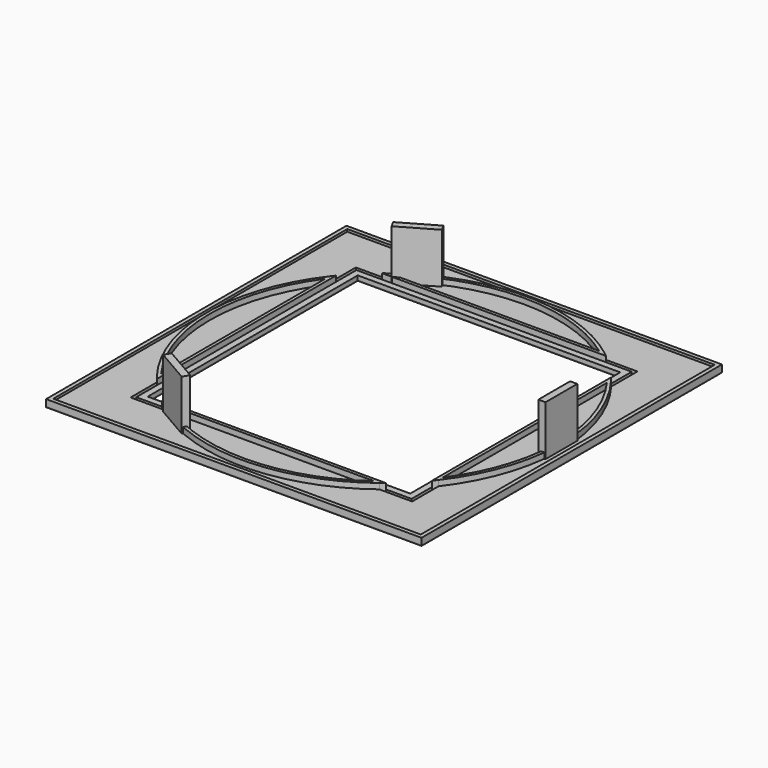
from build123d import *

# Parameters (mm, degrees)
F0_W      = 236
F0_H      = 236
F0_W_2    = 231
F0_H_2    = 231
F1_DEPTH  = 4
F2_DEPTH  = 2.5
F0_W_3    = 165
F0_H_3    = 165
F3_DEPTH  = 2.5
F4_DEPTH  = 6
F5_DEPTH  = 6
F6_DEPTH  = 6
F7_DEPTH  = 6
F8_DEPTH  = 6
F9_DEPTH  = 34
F10_COUNT = 3
F10_ANGLE = 240
F11_DEPTH = 2.5
F12_W     = 236
F12_H     = 236
F12_W_2   = 165
F12_H_2   = 165
F13_DEPTH = 0.5


with BuildPart() as f1:
    # F0 (on Top) → F1 (new body)
    with BuildSketch(Plane.XY):
        Rectangle(F0_W, F0_H)
        Rectangle(F0_W_2, F0_H_2, mode=Mode.SUBTRACT)
    extrude(amount=F1_DEPTH)

    # F0 (on Top) → F2 (join)
    with BuildSketch(Plane.XY):
        Rectangle(F0_W_2, F0_H_2)
        with BuildLine():
            Line((-88.5, 88.5), (-67.8232998313, 88.5))
            ThreePointArc((-67.8232998313, 88.5), (0, 111.5), (67.8232998313, 88.5))
            Line((67.8232998313, 88.5), (88.5, 88.5))
            Line((88.5, 88.5), (88.5, 67.8232998313))
            ThreePointArc((88.5, 67.8232998313), (103.4166407139, 41.6803121803), (110.7971118757, 12.5))
            Line((110.7971118757, 12.5), (111.5, 12.5))
            Line((111.5, 12.5), (111.5, 0))
            Line((111.5, 0), (111.5, -12.5))
            Line((111.5, -12.5), (110.7971118757, -12.5))
            ThreePointArc((110.7971118757, -12.5), (103.4166407139, -41.6803121803), (88.5, -67.8232998313))
            Line((88.5, -67.8232998313), (88.5, -88.5))
            Line((88.5, -88.5), (67.8232998313, -88.5))
            ThreePointArc((67.8232998313, -88.5), (0, -111.5), (-67.8232998313, -88.5))
            Line((-67.8232998313, -88.5), (-88.5, -88.5))
            Line((-88.5, -88.5), (-88.5, -67.8232998313))
            ThreePointArc((-88.5, -67.8232998313), (-111.5, 0), (-88.5, 67.8232998313))
            Line((-88.5, 67.8232998313), (-88.5, 88.5))
        make_face(mode=Mode.SUBTRACT)
    extrude(amount=F2_DEPTH)


with BuildPart() as f3:
    # F0 (on Top) → F3 (new body)
    with BuildSketch(Plane.XY):
        Polygon((-70.3562363974, 86.5), (-86.5, 86.5), (-86.5, 70.3562363974), (-86.5, 67.1416413264), (-86.5, -67.1416413264), (-86.5, -70.3562363974), (-86.5, -86.5), (-70.3562363974, -86.5), (-67.1416413264, -86.5), (67.1416413264, -86.5), (70.3562363974, -86.5), (86.5, -86.5), (86.5, -70.3562363974), (86.5, -67.1416413264), (86.5, 67.1416413264), (86.5, 70.3562363974), (86.5, 86.5), (70.3562363974, 86.5), (67.1416413264, 86.5), (-67.1416413264, 86.5), align=None)
        Rectangle(F0_W_3, F0_H_3, mode=Mode.SUBTRACT)
    extrude(amount=F3_DEPTH)


with BuildPart() as f4:
    # F0 (on Top) → F4 (new body)
    with BuildSketch(Plane.XY):
        with BuildLine():
            Line((-64.4825557806, -88.5), (-67.8232998313, -88.5))
            ThreePointArc((-67.8232998313, -88.5), (0, -111.5), (67.8232998313, -88.5))
            Line((67.8232998313, -88.5), (64.4825557806, -88.5))
            ThreePointArc((64.4825557806, -88.5), (0, -109.5), (-64.4825557806, -88.5))
        make_face()
        with BuildLine():
            ThreePointArc((-67.1416413264, -86.5), (-65.8196955023, -87.5101004684), (-64.4825557806, -88.5))
            Line((-64.4825557806, -88.5), (64.4825557806, -88.5))
            ThreePointArc((64.4825557806, -88.5), (65.8196955023, -87.5101004684), (67.1416413264, -86.5))
            Line((67.1416413264, -86.5), (-67.1416413264, -86.5))
        make_face()
        with BuildLine():
            ThreePointArc((-70.3562363974, -86.5), (-69.0970046969, -87.5091649024), (-67.8232998313, -88.5))
            Line((-67.8232998313, -88.5), (-64.4825557806, -88.5))
            ThreePointArc((-64.4825557806, -88.5), (-65.8196955023, -87.5101004684), (-67.1416413264, -86.5))
            Line((-67.1416413264, -86.5), (-70.3562363974, -86.5))
        make_face()
        with BuildLine():
            Line((64.4825557806, -88.5), (67.8232998313, -88.5))
            ThreePointArc((67.8232998313, -88.5), (69.0970046969, -87.5091649024), (70.3562363974, -86.5))
            Line((70.3562363974, -86.5), (67.1416413264, -86.5))
            ThreePointArc((67.1416413264, -86.5), (65.8196955023, -87.5101004684), (64.4825557806, -88.5))
        make_face()
    extrude(amount=F4_DEPTH)


with BuildPart() as f5:
    # F0 (on Top) → F5 (new body)
    with BuildSketch(Plane.XY):
        with BuildLine():
            ThreePointArc((108.7841900278, -12.5), (102.0088693943, -39.8050319043), (88.5, -64.4825557806))
            Line((88.5, -64.4825557806), (88.5, -67.8232998313))
            ThreePointArc((88.5, -67.8232998313), (103.4166407139, -41.6803121803), (110.7971118757, -12.5))
            Line((110.7971118757, -12.5), (108.7841900278, -12.5))
        make_face()
        with BuildLine():
            Line((88.5, -67.8232998313), (88.5, -64.4825557806))
            ThreePointArc((88.5, -64.4825557806), (87.5101004684, -65.8196955023), (86.5, -67.1416413264))
            Line((86.5, -67.1416413264), (86.5, -70.3562363974))
            ThreePointArc((86.5, -70.3562363974), (87.5091649024, -69.0970046969), (88.5, -67.8232998313))
        make_face()
        with BuildLine():
            Line((88.5, -64.4825557806), (88.5, 64.4825557806))
            ThreePointArc((88.5, 64.4825557806), (87.5101004684, 65.8196955023), (86.5, 67.1416413264))
            Line((86.5, 67.1416413264), (86.5, -67.1416413264))
            ThreePointArc((86.5, -67.1416413264), (87.5101004684, -65.8196955023), (88.5, -64.4825557806))
        make_face()
        with BuildLine():
            Line((88.5, 64.4825557806), (88.5, 67.8232998313))
            ThreePointArc((88.5, 67.8232998313), (87.5091649024, 69.0970046969), (86.5, 70.3562363974))
            Line((86.5, 70.3562363974), (86.5, 67.1416413264))
            ThreePointArc((86.5, 67.1416413264), (87.5101004684, 65.8196955023), (88.5, 64.4825557806))
        make_face()
        with BuildLine():
            ThreePointArc((110.7971118757, 12.5), (103.4166407139, 41.6803121803), (88.5, 67.8232998313))
            Line((88.5, 67.8232998313), (88.5, 64.4825557806))
            ThreePointArc((88.5, 64.4825557806), (102.0088693943, 39.8050319043), (108.7841900278, 12.5))
            Line((108.7841900278, 12.5), (110.7971118757, 12.5))
        make_face()
    extrude(amount=F5_DEPTH)


with BuildPart() as f6:
    # F0 (on Top) → F6 (new body)
    with BuildSketch(Plane.XY):
        with BuildLine():
            Line((-88.5, 64.4825557806), (-88.5, 67.8232998313))
            ThreePointArc((-88.5, 67.8232998313), (-111.5, 0), (-88.5, -67.8232998313))
            Line((-88.5, -67.8232998313), (-88.5, -64.4825557806))
            ThreePointArc((-88.5, -64.4825557806), (-109.5, 0), (-88.5, 64.4825557806))
        make_face()
        with BuildLine():
            Line((-86.5, -70.3562363974), (-86.5, -67.1416413264))
            ThreePointArc((-86.5, -67.1416413264), (-87.5101004684, -65.8196955023), (-88.5, -64.4825557806))
            Line((-88.5, -64.4825557806), (-88.5, -67.8232998313))
            ThreePointArc((-88.5, -67.8232998313), (-87.5091649024, -69.0970046969), (-86.5, -70.3562363974))
        make_face()
        with BuildLine():
            Line((-86.5, -67.1416413264), (-86.5, 67.1416413264))
            ThreePointArc((-86.5, 67.1416413264), (-87.5101004684, 65.8196955023), (-88.5, 64.4825557806))
            Line((-88.5, 64.4825557806), (-88.5, -64.4825557806))
            ThreePointArc((-88.5, -64.4825557806), (-87.5101004684, -65.8196955023), (-86.5, -67.1416413264))
        make_face()
        with BuildLine():
            Line((-86.5, 67.1416413264), (-86.5, 70.3562363974))
            ThreePointArc((-86.5, 70.3562363974), (-87.5091649024, 69.0970046969), (-88.5, 67.8232998313))
            Line((-88.5, 67.8232998313), (-88.5, 64.4825557806))
            ThreePointArc((-88.5, 64.4825557806), (-87.5101004684, 65.8196955023), (-86.5, 67.1416413264))
        make_face()
    extrude(amount=F6_DEPTH)


with BuildPart() as f7:
    # F0 (on Top) → F7 (new body)
    with BuildSketch(Plane.XY):
        with BuildLine():
            ThreePointArc((-64.4825557806, 88.5), (-65.8196955023, 87.5101004684), (-67.1416413264, 86.5))
            Line((-67.1416413264, 86.5), (67.1416413264, 86.5))
            ThreePointArc((67.1416413264, 86.5), (65.8196955023, 87.5101004684), (64.4825557806, 88.5))
            Line((64.4825557806, 88.5), (-64.4825557806, 88.5))
        make_face()
        with BuildLine():
            ThreePointArc((-67.8232998313, 88.5), (-69.0970046969, 87.5091649024), (-70.3562363974, 86.5))
            Line((-70.3562363974, 86.5), (-67.1416413264, 86.5))
            ThreePointArc((-67.1416413264, 86.5), (-65.8196955023, 87.5101004684), (-64.4825557806, 88.5))
            Line((-64.4825557806, 88.5), (-67.8232998313, 88.5))
        make_face()
        with BuildLine():
            ThreePointArc((67.8232998313, 88.5), (0, 111.5), (-67.8232998313, 88.5))
            Line((-67.8232998313, 88.5), (-64.4825557806, 88.5))
            ThreePointArc((-64.4825557806, 88.5), (0, 109.5), (64.4825557806, 88.5))
            Line((64.4825557806, 88.5), (67.8232998313, 88.5))
        make_face()
        with BuildLine():
            ThreePointArc((64.4825557806, 88.5), (65.8196955023, 87.5101004684), (67.1416413264, 86.5))
            Line((67.1416413264, 86.5), (70.3562363974, 86.5))
            ThreePointArc((70.3562363974, 86.5), (69.0970046969, 87.5091649024), (67.8232998313, 88.5))
            Line((67.8232998313, 88.5), (64.4825557806, 88.5))
        make_face()
    extrude(amount=F7_DEPTH)


with BuildPart() as f8:
    # F0 (on Top) → F8 (new body)
    with BuildSketch(Plane.XY):
        with BuildLine():
            ThreePointArc((108.7841900278, -12.5), (102.0088693943, -39.8050319043), (88.5, -64.4825557806))
            Line((88.5, -64.4825557806), (88.5, -67.8232998313))
            ThreePointArc((88.5, -67.8232998313), (103.4166407139, -41.6803121803), (110.7971118757, -12.5))
            Line((110.7971118757, -12.5), (108.7841900278, -12.5))
        make_face()
    extrude(amount=F8_DEPTH)


with BuildPart() as f9:
    # F0 (on Top) → F9 (new body)
    with BuildSketch(Plane.XY):
        with BuildLine():
            Line((107, -12.5), (108.7841900278, -12.5))
            ThreePointArc((108.7841900278, -12.5), (109.3209010392, -6.2602392909), (109.5, 0))
            Line((109.5, 0), (107, 0))
            Line((107, 0), (107, -12.5))
        make_face()
        with BuildLine():
            ThreePointArc((110.7971118757, -12.5), (111.3241392829, -6.2598732358), (111.5, 0))
            Line((111.5, 0), (109.5, 0))
            ThreePointArc((109.5, 0), (109.3209010392, -6.2602392909), (108.7841900278, -12.5))
            Line((108.7841900278, -12.5), (110.7971118757, -12.5))
        make_face()
        with BuildLine():
            Line((111.5, -12.5), (111.5, 0))
            ThreePointArc((111.5, 0), (111.3241392829, -6.2598732358), (110.7971118757, -12.5))
            Line((110.7971118757, -12.5), (111.5, -12.5))
        make_face()
        with BuildLine():
            Line((111.5, 12.5), (110.7971118757, 12.5))
            ThreePointArc((110.7971118757, 12.5), (111.3241392829, 6.2598732358), (111.5, 0))
            Line((111.5, 0), (111.5, 12.5))
        make_face()
        with BuildLine():
            ThreePointArc((111.5, 0), (111.3241392829, 6.2598732358), (110.7971118757, 12.5))
            Line((110.7971118757, 12.5), (108.7841900278, 12.5))
            ThreePointArc((108.7841900278, 12.5), (109.3209010392, 6.2602392909), (109.5, 0))
            Line((109.5, 0), (111.5, 0))
        make_face()
        with BuildLine():
            ThreePointArc((109.5, 0), (109.3209010392, 6.2602392909), (108.7841900278, 12.5))
            Line((108.7841900278, 12.5), (107, 12.5))
            Line((107, 12.5), (107, 0))
            Line((107, 0), (109.5, 0))
        make_face()
    extrude(amount=F9_DEPTH)


with BuildPart() as f10_1:
    # F10: instance of F9
    add(f9.part.rotate(Axis((0, 0, 0), (0, 0, 1)), 1 * F10_ANGLE / (F10_COUNT - 1)))


with BuildPart() as f10_2:
    # F10: instance of F9
    add(f9.part.rotate(Axis((0, 0, 0), (0, 0, 1)), 2 * F10_ANGLE / (F10_COUNT - 1)))


with BuildPart() as f11:
    # F0 (on Top) → F11 (new body)
    with BuildSketch(Plane.XY):
        with BuildLine():
            Line((64.4825557806, -88.5), (-64.4825557806, -88.5))
            ThreePointArc((-64.4825557806, -88.5), (0, -109.5), (64.4825557806, -88.5))
        make_face()
    extrude(amount=F11_DEPTH)


with BuildPart() as f11b:
    # F0 (on Top) → F11, piece 2 (new body)
    with BuildSketch(Plane.XY):
        with BuildLine():
            Line((-88.5, -64.4825557806), (-88.5, 64.4825557806))
            ThreePointArc((-88.5, 64.4825557806), (-109.5, 0), (-88.5, -64.4825557806))
        make_face()
    extrude(amount=F11_DEPTH)


with BuildPart() as f11c:
    # F0 (on Top) → F11, piece 3 (new body)
    with BuildSketch(Plane.XY):
        with BuildLine():
            ThreePointArc((108.7841900278, 12.5), (102.0088693943, 39.8050319043), (88.5, 64.4825557806))
            Line((88.5, 64.4825557806), (88.5, -64.4825557806))
            ThreePointArc((88.5, -64.4825557806), (102.0088693943, -39.8050319043), (108.7841900278, -12.5))
            Line((108.7841900278, -12.5), (107, -12.5))
            Line((107, -12.5), (107, 0))
            Line((107, 0), (107, 12.5))
            Line((107, 12.5), (108.7841900278, 12.5))
        make_face()
    extrude(amount=F11_DEPTH)


with BuildPart() as f11d:
    # F0 (on Top) → F11, piece 4 (new body)
    with BuildSketch(Plane.XY):
        with BuildLine():
            ThreePointArc((64.4825557806, 88.5), (0, 109.5), (-64.4825557806, 88.5))
            Line((-64.4825557806, 88.5), (64.4825557806, 88.5))
        make_face()
    extrude(amount=F11_DEPTH)


with BuildPart() as f13:
    # F12 (on face) → F13 (new body)
    with BuildSketch(Plane(origin=(0, 0, 0), x_dir=(1, 0, 0), z_dir=(0, 0, -1))):
        Rectangle(F12_W, F12_H)
        with BuildLine():
            ThreePointArc((88.5, 67.8232998313), (103.4166407139, 41.6803121803), (110.7971118757, 12.5))
            Line((110.7971118757, 12.5), (111.5, 12.5))
            Line((111.5, 12.5), (111.5, -12.5))
            Line((111.5, -12.5), (110.7971118757, -12.5))
            ThreePointArc((110.7971118757, -12.5), (103.4166407139, -41.6803121803), (88.5, -67.8232998313))
            Line((88.5, -67.8232998313), (88.5, -88.5))
            Line((88.5, -88.5), (67.8232998313, -88.5))
            ThreePointArc((67.8232998313, -88.5), (0, -111.5), (-67.8232998313, -88.5))
            Line((-67.8232998313, -88.5), (-88.5, -88.5))
            Line((-88.5, -88.5), (-88.5, -67.8232998313))
            ThreePointArc((-88.5, -67.8232998313), (-111.5, 0), (-88.5, 67.8232998313))
            Line((-88.5, 67.8232998313), (-88.5, 88.5))
            Line((-88.5, 88.5), (-67.8232998313, 88.5))
            ThreePointArc((-67.8232998313, 88.5), (0, 111.5), (67.8232998313, 88.5))
            Line((67.8232998313, 88.5), (88.5, 88.5))
            Line((88.5, 88.5), (88.5, 67.8232998313))
        make_face(mode=Mode.SUBTRACT)
        with BuildLine():
            Line((111.5, 12.5), (110.7971118757, 12.5))
            ThreePointArc((110.7971118757, 12.5), (103.4166407139, 41.6803121803), (88.5, 67.8232998313))
            Line((88.5, 67.8232998313), (88.5, 88.5))
            Line((88.5, 88.5), (67.8232998313, 88.5))
            ThreePointArc((67.8232998313, 88.5), (0, 111.5), (-67.8232998313, 88.5))
            Line((-67.8232998313, 88.5), (-88.5, 88.5))
            Line((-88.5, 88.5), (-88.5, 67.8232998313))
            ThreePointArc((-88.5, 67.8232998313), (-111.5, 0), (-88.5, -67.8232998313))
            Line((-88.5, -67.8232998313), (-88.5, -88.5))
            Line((-88.5, -88.5), (-67.8232998313, -88.5))
            ThreePointArc((-67.8232998313, -88.5), (0, -111.5), (67.8232998313, -88.5))
            Line((67.8232998313, -88.5), (88.5, -88.5))
            Line((88.5, -88.5), (88.5, -67.8232998313))
            ThreePointArc((88.5, -67.8232998313), (103.4166407139, -41.6803121803), (110.7971118757, -12.5))
            Line((110.7971118757, -12.5), (111.5, -12.5))
            Line((111.5, -12.5), (111.5, 12.5))
        make_face()
        Rectangle(F12_W_2, F12_H_2, mode=Mode.SUBTRACT)
    extrude(amount=F13_DEPTH)


solid = Compound([f1.part, f3.part, f4.part, f5.part, f6.part, f7.part, f9.part, f10_1.part, f10_2.part, f11.part, f11b.part, f11c.part, f11d.part, f13.part])
